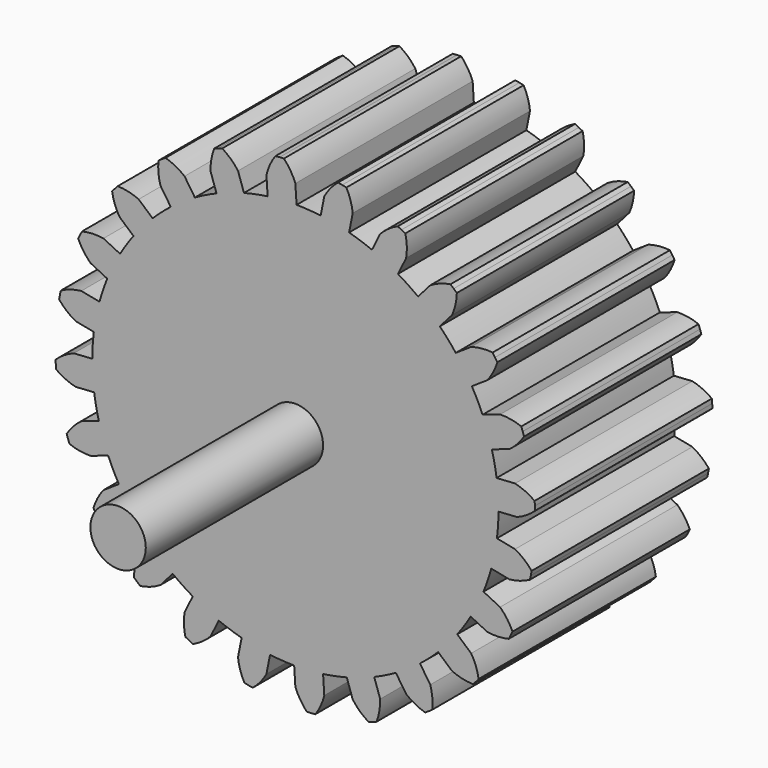
from build123d import *

# Parameters (mm, degrees)
F1_DEPTH = 25.4
F2_R     = 3.175
F3_DEPTH = 25.4


with BuildPart() as f1:
    # F0 (on Front) → F1 (new body)
    with BuildSketch(Plane.XZ):
        with BuildLine():
            ThreePointArc((23.282496, -0.138789), (23.282807, -0.069395), (23.28291, 0))
            ThreePointArc((23.28291, 0), (23.228418, 1.592014), (23.065196, 3.176577))
            ThreePointArc((23.065196, 3.176577), (22.835535, 4.54227), (22.525086, 5.891894))
            ThreePointArc((22.525086, 5.891894), (22.047289, 7.484046), (21.45711, 9.038049))
            ThreePointArc((21.45711, 9.038049), (20.881807, 10.297768), (20.232628, 11.521054))
            ThreePointArc((20.232628, 11.521054), (19.359032, 12.935292), (18.386757, 14.283594))
            ThreePointArc((18.386757, 14.283594), (17.505019, 15.351489), (16.561349, 16.365073))
            ThreePointArc((16.561349, 16.365073), (15.351489, 17.505019), (14.063377, 18.555735))
            ThreePointArc((14.063377, 18.555735), (12.935292, 19.359032), (11.761443, 20.093839))
            ThreePointArc((11.761443, 20.093839), (10.297768, 20.881807), (8.781602, 21.563334))
            ThreePointArc((8.781602, 21.563334), (7.484046, 22.047289), (6.160013, 22.453243))
            ThreePointArc((6.160013, 22.453243), (4.54227, 22.835535), (2.901374, 23.101427))
            ThreePointArc((2.901374, 23.101427), (1.522775, 23.23306), (0.138789, 23.282496))
            ThreePointArc((0.138789, 23.282496), (-1.522775, 23.23306), (-3.176577, 23.065196))
            ThreePointArc((-3.176577, 23.065196), (-4.54227, 22.835535), (-5.891894, 22.525086))
            ThreePointArc((-5.891894, 22.525086), (-7.484046, 22.047289), (-9.038049, 21.45711))
            ThreePointArc((-9.038049, 21.45711), (-10.297768, 20.881807), (-11.521054, 20.232628))
            ThreePointArc((-11.521054, 20.232628), (-12.935292, 19.359032), (-14.283594, 18.386757))
            ThreePointArc((-14.283594, 18.386757), (-15.351489, 17.505019), (-16.365073, 16.561349))
            ThreePointArc((-16.365073, 16.561349), (-17.505019, 15.351489), (-18.555735, 14.063377))
            ThreePointArc((-18.555735, 14.063377), (-19.359032, 12.935292), (-20.093839, 11.761443))
            ThreePointArc((-20.093839, 11.761443), (-20.881807, 10.297768), (-21.563334, 8.781602))
            ThreePointArc((-21.563334, 8.781602), (-22.047289, 7.484046), (-22.453243, 6.160013))
            ThreePointArc((-22.453243, 6.160013), (-22.835535, 4.54227), (-23.101427, 2.901374))
            ThreePointArc((-23.101427, 2.901374), (-23.23306, 1.522775), (-23.282496, 0.138789))
            ThreePointArc((-23.282496, 0.138789), (-23.23306, -1.522775), (-23.065196, -3.176577))
            ThreePointArc((-23.065196, -3.176577), (-22.835535, -4.54227), (-22.525086, -5.891894))
            ThreePointArc((-22.525086, -5.891894), (-22.047289, -7.484046), (-21.45711, -9.038049))
            ThreePointArc((-21.45711, -9.038049), (-20.881807, -10.297768), (-20.232628, -11.521054))
            ThreePointArc((-20.232628, -11.521054), (-19.359032, -12.935292), (-18.386757, -14.283594))
            ThreePointArc((-18.386757, -14.283594), (-17.505019, -15.351489), (-16.561349, -16.365073))
            ThreePointArc((-16.561349, -16.365073), (-15.351489, -17.505019), (-14.063377, -18.555735))
            ThreePointArc((-14.063377, -18.555735), (-12.935292, -19.359032), (-11.761443, -20.093839))
            ThreePointArc((-11.761443, -20.093839), (-10.297768, -20.881807), (-8.781602, -21.563334))
            ThreePointArc((-8.781602, -21.563334), (-7.484046, -22.047289), (-6.160013, -22.453243))
            ThreePointArc((-6.160013, -22.453243), (-4.54227, -22.835535), (-2.901374, -23.101427))
            ThreePointArc((-2.901374, -23.101427), (-1.522775, -23.23306), (-0.138789, -23.282496))
            ThreePointArc((-0.138789, -23.282496), (1.522775, -23.23306), (3.176577, -23.065196))
            ThreePointArc((3.176577, -23.065196), (4.54227, -22.835535), (5.891894, -22.525086))
            ThreePointArc((5.891894, -22.525086), (7.484046, -22.047289), (9.038049, -21.45711))
            ThreePointArc((9.038049, -21.45711), (10.297768, -20.881807), (11.521054, -20.232628))
            ThreePointArc((11.521054, -20.232628), (12.935292, -19.359032), (14.283594, -18.386757))
            ThreePointArc((14.283594, -18.386757), (15.351489, -17.505019), (16.365073, -16.561349))
            ThreePointArc((16.365073, -16.561349), (17.505019, -15.351489), (18.555735, -14.063377))
            ThreePointArc((18.555735, -14.063377), (19.359032, -12.935292), (20.093839, -11.761443))
            ThreePointArc((20.093839, -11.761443), (20.881807, -10.297768), (21.563334, -8.781602))
            ThreePointArc((21.563334, -8.781602), (22.047289, -7.484046), (22.453243, -6.160013))
            ThreePointArc((22.453243, -6.160013), (22.835535, -4.54227), (23.101427, -2.901374))
            ThreePointArc((23.101427, -2.901374), (23.23306, -1.522775), (23.282496, -0.138789))
        make_face()
        with BuildLine():
            ThreePointArc((23.065196, 3.176577), (23.228418, 1.592014), (23.28291, 0))
            ThreePointArc((23.28291, 0), (23.282807, -0.069395), (23.282496, -0.138789))
            Line((23.282496, -0.138789), (25.4, 0))
            ThreePointArc((25.4, 0), (26.506553, 0.554834), (27.484437, 1.313808))
            Line((27.484437, 1.313808), (27.4612, 1.799902))
            Line((27.4612, 1.799902), (27.42079, 2.28487))
            ThreePointArc((27.42079, 2.28487), (26.352206, 2.909712), (25.182699, 3.315365))
            Line((25.182699, 3.315365), (23.065196, 3.176577))
        make_face()
        with BuildLine():
            ThreePointArc((21.45711, 9.038049), (22.047289, 7.484046), (22.525086, 5.891894))
            Line((22.525086, 5.891894), (24.534516, 6.574004))
            ThreePointArc((24.534516, 6.574004), (25.459762, 7.396329), (26.207889, 8.382537))
            Line((26.207889, 8.382537), (26.059634, 8.846054))
            Line((26.059634, 8.846054), (25.895081, 9.304038))
            ThreePointArc((25.895081, 9.304038), (24.701187, 9.631019), (23.46654, 9.720159))
            Line((23.46654, 9.720159), (21.45711, 9.038049))
        make_face()
        with BuildLine():
            Line((25.182699, -3.315365), (23.101427, -2.901374))
            ThreePointArc((23.101427, -2.901374), (22.835535, -4.54227), (22.453243, -6.160013))
            Line((22.453243, -6.160013), (24.534516, -6.574004))
            ThreePointArc((24.534516, -6.574004), (25.746965, -6.324472), (26.887966, -5.844454))
            Line((26.887966, -5.844454), (26.991332, -5.36891))
            Line((26.991332, -5.36891), (27.077817, -4.890007))
            ThreePointArc((27.077817, -4.890007), (26.207365, -4.009887), (25.182699, -3.315365))
        make_face()
        with BuildLine():
            ThreePointArc((18.386757, 14.283594), (19.359032, 12.935292), (20.232628, 11.521054))
            Line((20.232628, 11.521054), (21.997045, 12.7))
            ThreePointArc((21.997045, 12.7), (22.677931, 13.733777), (23.145316, 14.88001))
            Line((23.145316, 14.88001), (22.882146, 15.289361))
            Line((22.882146, 15.289361), (22.604665, 15.689151))
            ThreePointArc((22.604665, 15.689151), (21.366824, 15.695988), (20.151175, 15.46254))
            Line((20.151175, 15.46254), (18.386757, 14.283594))
        make_face()
        with BuildLine():
            Line((23.46654, -9.720159), (21.563334, -8.781602))
            ThreePointArc((21.563334, -8.781602), (20.881807, -10.297768), (20.093839, -11.761443))
            Line((20.093839, -11.761443), (21.997045, -12.7))
            ThreePointArc((21.997045, -12.7), (23.232765, -12.772776), (24.459125, -12.604427))
            Line((24.459125, -12.604427), (24.682048, -12.171839))
            Line((24.682048, -12.171839), (24.889536, -11.731639))
            ThreePointArc((24.889536, -11.731639), (24.276536, -10.656218), (23.46654, -9.720159))
        make_face()
        with BuildLine():
            ThreePointArc((14.063377, 18.555735), (15.351489, 17.505019), (16.561349, 16.365073))
            Line((16.561349, 16.365073), (17.960512, 17.960512))
            ThreePointArc((17.960512, 17.960512), (18.350636, 19.13529), (18.505429, 20.363434))
            Line((18.505429, 20.363434), (18.145278, 20.690724))
            Line((18.145278, 20.690724), (17.773779, 21.005074))
            ThreePointArc((17.773779, 21.005074), (16.576346, 20.691301), (15.46254, 20.151175))
            Line((15.46254, 20.151175), (14.063377, 18.555735))
        make_face()
        with BuildLine():
            Line((20.151175, -15.46254), (18.555735, -14.063377))
            ThreePointArc((18.555735, -14.063377), (17.505019, -15.351489), (16.365073, -16.561349))
            Line((16.365073, -16.561349), (17.960512, -17.960512))
            ThreePointArc((17.960512, -17.960512), (19.13529, -18.350636), (20.363434, -18.505429))
            Line((20.363434, -18.505429), (20.690724, -18.145278))
            Line((20.690724, -18.145278), (21.005074, -17.773779))
            ThreePointArc((21.005074, -17.773779), (20.691301, -16.576346), (20.151175, -15.46254))
        make_face()
        with BuildLine():
            ThreePointArc((8.781602, 21.563334), (10.297768, 20.881807), (11.761443, 20.093839))
            Line((11.761443, 20.093839), (12.7, 21.997045))
            ThreePointArc((12.7, 21.997045), (12.772776, 23.232765), (12.604427, 24.459125))
            Line((12.604427, 24.459125), (12.171839, 24.682048))
            Line((12.171839, 24.682048), (11.731639, 24.889536))
            ThreePointArc((11.731639, 24.889536), (10.656218, 24.276536), (9.720159, 23.46654))
            Line((9.720159, 23.46654), (8.781602, 21.563334))
        make_face()
        with BuildLine():
            Line((15.46254, -20.151175), (14.283594, -18.386757))
            ThreePointArc((14.283594, -18.386757), (12.935292, -19.359032), (11.521054, -20.232628))
            Line((11.521054, -20.232628), (12.7, -21.997045))
            ThreePointArc((12.7, -21.997045), (13.733777, -22.677931), (14.88001, -23.145316))
            Line((14.88001, -23.145316), (15.289361, -22.882146))
            Line((15.289361, -22.882146), (15.689151, -22.604665))
            ThreePointArc((15.689151, -22.604665), (15.695988, -21.366824), (15.46254, -20.151175))
        make_face()
        with BuildLine():
            ThreePointArc((2.901374, 23.101427), (4.54227, 22.835535), (6.160013, 22.453243))
            Line((6.160013, 22.453243), (6.574004, 24.534516))
            ThreePointArc((6.574004, 24.534516), (6.324472, 25.746965), (5.844454, 26.887966))
            Line((5.844454, 26.887966), (5.36891, 26.991332))
            Line((5.36891, 26.991332), (4.890007, 27.077817))
            ThreePointArc((4.890007, 27.077817), (4.009887, 26.207365), (3.315365, 25.182699))
            Line((3.315365, 25.182699), (2.901374, 23.101427))
        make_face()
        with BuildLine():
            Line((9.720159, -23.46654), (9.038049, -21.45711))
            ThreePointArc((9.038049, -21.45711), (7.484046, -22.047289), (5.891894, -22.525086))
            Line((5.891894, -22.525086), (6.574004, -24.534516))
            ThreePointArc((6.574004, -24.534516), (7.396329, -25.459762), (8.382537, -26.207889))
            Line((8.382537, -26.207889), (8.846054, -26.059634))
            Line((8.846054, -26.059634), (9.304038, -25.895081))
            ThreePointArc((9.304038, -25.895081), (9.631019, -24.701187), (9.720159, -23.46654))
        make_face()
        with BuildLine():
            ThreePointArc((-3.176577, 23.065196), (-1.522775, 23.23306), (0.138789, 23.282496))
            Line((0.138789, 23.282496), (0, 25.4))
            ThreePointArc((0, 25.4), (-0.554834, 26.506553), (-1.313808, 27.484437))
            Line((-1.313808, 27.484437), (-1.799902, 27.4612))
            Line((-1.799902, 27.4612), (-2.28487, 27.42079))
            ThreePointArc((-2.28487, 27.42079), (-2.909712, 26.352206), (-3.315365, 25.182699))
            Line((-3.315365, 25.182699), (-3.176577, 23.065196))
        make_face()
        with BuildLine():
            Line((3.315365, -25.182699), (3.176577, -23.065196))
            ThreePointArc((3.176577, -23.065196), (1.522775, -23.23306), (-0.138789, -23.282496))
            Line((-0.138789, -23.282496), (0, -25.4))
            ThreePointArc((0, -25.4), (0.554834, -26.506553), (1.313808, -27.484437))
            Line((1.313808, -27.484437), (1.799902, -27.4612))
            Line((1.799902, -27.4612), (2.28487, -27.42079))
            ThreePointArc((2.28487, -27.42079), (2.909712, -26.352206), (3.315365, -25.182699))
        make_face()
        with BuildLine():
            ThreePointArc((-9.038049, 21.45711), (-7.484046, 22.047289), (-5.891894, 22.525086))
            Line((-5.891894, 22.525086), (-6.574004, 24.534516))
            ThreePointArc((-6.574004, 24.534516), (-7.396329, 25.459762), (-8.382537, 26.207889))
            Line((-8.382537, 26.207889), (-8.846054, 26.059634))
            Line((-8.846054, 26.059634), (-9.304038, 25.895081))
            ThreePointArc((-9.304038, 25.895081), (-9.631019, 24.701187), (-9.720159, 23.46654))
            Line((-9.720159, 23.46654), (-9.038049, 21.45711))
        make_face()
        with BuildLine():
            Line((-3.315365, -25.182699), (-2.901374, -23.101427))
            ThreePointArc((-2.901374, -23.101427), (-4.54227, -22.835535), (-6.160013, -22.453243))
            Line((-6.160013, -22.453243), (-6.574004, -24.534516))
            ThreePointArc((-6.574004, -24.534516), (-6.324472, -25.746965), (-5.844454, -26.887966))
            Line((-5.844454, -26.887966), (-5.36891, -26.991332))
            Line((-5.36891, -26.991332), (-4.890007, -27.077817))
            ThreePointArc((-4.890007, -27.077817), (-4.009887, -26.207365), (-3.315365, -25.182699))
        make_face()
        with BuildLine():
            ThreePointArc((-14.283594, 18.386757), (-12.935292, 19.359032), (-11.521054, 20.232628))
            Line((-11.521054, 20.232628), (-12.7, 21.997045))
            ThreePointArc((-12.7, 21.997045), (-13.733777, 22.677931), (-14.88001, 23.145316))
            Line((-14.88001, 23.145316), (-15.289361, 22.882146))
            Line((-15.289361, 22.882146), (-15.689151, 22.604665))
            ThreePointArc((-15.689151, 22.604665), (-15.695988, 21.366824), (-15.46254, 20.151175))
            Line((-15.46254, 20.151175), (-14.283594, 18.386757))
        make_face()
        with BuildLine():
            Line((-9.720159, -23.46654), (-8.781602, -21.563334))
            ThreePointArc((-8.781602, -21.563334), (-10.297768, -20.881807), (-11.761443, -20.093839))
            Line((-11.761443, -20.093839), (-12.7, -21.997045))
            ThreePointArc((-12.7, -21.997045), (-12.772776, -23.232765), (-12.604427, -24.459125))
            Line((-12.604427, -24.459125), (-12.171839, -24.682048))
            Line((-12.171839, -24.682048), (-11.731639, -24.889536))
            ThreePointArc((-11.731639, -24.889536), (-10.656218, -24.276536), (-9.720159, -23.46654))
        make_face()
        with BuildLine():
            ThreePointArc((-18.555735, 14.063377), (-17.505019, 15.351489), (-16.365073, 16.561349))
            Line((-16.365073, 16.561349), (-17.960512, 17.960512))
            ThreePointArc((-17.960512, 17.960512), (-19.13529, 18.350636), (-20.363434, 18.505429))
            Line((-20.363434, 18.505429), (-20.690724, 18.145278))
            Line((-20.690724, 18.145278), (-21.005074, 17.773779))
            ThreePointArc((-21.005074, 17.773779), (-20.691301, 16.576346), (-20.151175, 15.46254))
            Line((-20.151175, 15.46254), (-18.555735, 14.063377))
        make_face()
        with BuildLine():
            Line((-15.46254, -20.151175), (-14.063377, -18.555735))
            ThreePointArc((-14.063377, -18.555735), (-15.351489, -17.505019), (-16.561349, -16.365073))
            Line((-16.561349, -16.365073), (-17.960512, -17.960512))
            ThreePointArc((-17.960512, -17.960512), (-18.350636, -19.13529), (-18.505429, -20.363434))
            Line((-18.505429, -20.363434), (-18.145278, -20.690724))
            Line((-18.145278, -20.690724), (-17.773779, -21.005074))
            ThreePointArc((-17.773779, -21.005074), (-16.576346, -20.691301), (-15.46254, -20.151175))
        make_face()
        with BuildLine():
            ThreePointArc((-21.563334, 8.781602), (-20.881807, 10.297768), (-20.093839, 11.761443))
            Line((-20.093839, 11.761443), (-21.997045, 12.7))
            ThreePointArc((-21.997045, 12.7), (-23.232765, 12.772776), (-24.459125, 12.604427))
            Line((-24.459125, 12.604427), (-24.682048, 12.171839))
            Line((-24.682048, 12.171839), (-24.889536, 11.731639))
            ThreePointArc((-24.889536, 11.731639), (-24.276536, 10.656218), (-23.46654, 9.720159))
            Line((-23.46654, 9.720159), (-21.563334, 8.781602))
        make_face()
        with BuildLine():
            Line((-20.151175, -15.46254), (-18.386757, -14.283594))
            ThreePointArc((-18.386757, -14.283594), (-19.359032, -12.935292), (-20.232628, -11.521054))
            Line((-20.232628, -11.521054), (-21.997045, -12.7))
            ThreePointArc((-21.997045, -12.7), (-22.677931, -13.733777), (-23.145316, -14.88001))
            Line((-23.145316, -14.88001), (-22.882146, -15.289361))
            Line((-22.882146, -15.289361), (-22.604665, -15.689151))
            ThreePointArc((-22.604665, -15.689151), (-21.366824, -15.695988), (-20.151175, -15.46254))
        make_face()
        with BuildLine():
            ThreePointArc((-23.101427, 2.901374), (-22.835535, 4.54227), (-22.453243, 6.160013))
            Line((-22.453243, 6.160013), (-24.534516, 6.574004))
            ThreePointArc((-24.534516, 6.574004), (-25.746965, 6.324472), (-26.887966, 5.844454))
            Line((-26.887966, 5.844454), (-26.991332, 5.36891))
            Line((-26.991332, 5.36891), (-27.077817, 4.890007))
            ThreePointArc((-27.077817, 4.890007), (-26.207365, 4.009887), (-25.182699, 3.315365))
            Line((-25.182699, 3.315365), (-23.101427, 2.901374))
        make_face()
        with BuildLine():
            Line((-23.46654, -9.720159), (-21.45711, -9.038049))
            ThreePointArc((-21.45711, -9.038049), (-22.047289, -7.484046), (-22.525086, -5.891894))
            Line((-22.525086, -5.891894), (-24.534516, -6.574004))
            ThreePointArc((-24.534516, -6.574004), (-25.459762, -7.396329), (-26.207889, -8.382537))
            Line((-26.207889, -8.382537), (-26.059634, -8.846054))
            Line((-26.059634, -8.846054), (-25.895081, -9.304038))
            ThreePointArc((-25.895081, -9.304038), (-24.701187, -9.631019), (-23.46654, -9.720159))
        make_face()
        with BuildLine():
            ThreePointArc((-23.065196, -3.176577), (-23.23306, -1.522775), (-23.282496, 0.138789))
            Line((-23.282496, 0.138789), (-25.4, 0))
            ThreePointArc((-25.4, 0), (-26.506553, -0.554834), (-27.484437, -1.313808))
            Line((-27.484437, -1.313808), (-27.4612, -1.799902))
            Line((-27.4612, -1.799902), (-27.42079, -2.28487))
            ThreePointArc((-27.42079, -2.28487), (-26.352206, -2.909712), (-25.182699, -3.315365))
            Line((-25.182699, -3.315365), (-23.065196, -3.176577))
        make_face()
    extrude(amount=F1_DEPTH)

    # F2 (on face) → F3 (join)
    with BuildSketch(Plane.XZ.offset(25.4)):
        Circle(F2_R)
    extrude(amount=F3_DEPTH)


solid = f1.part
